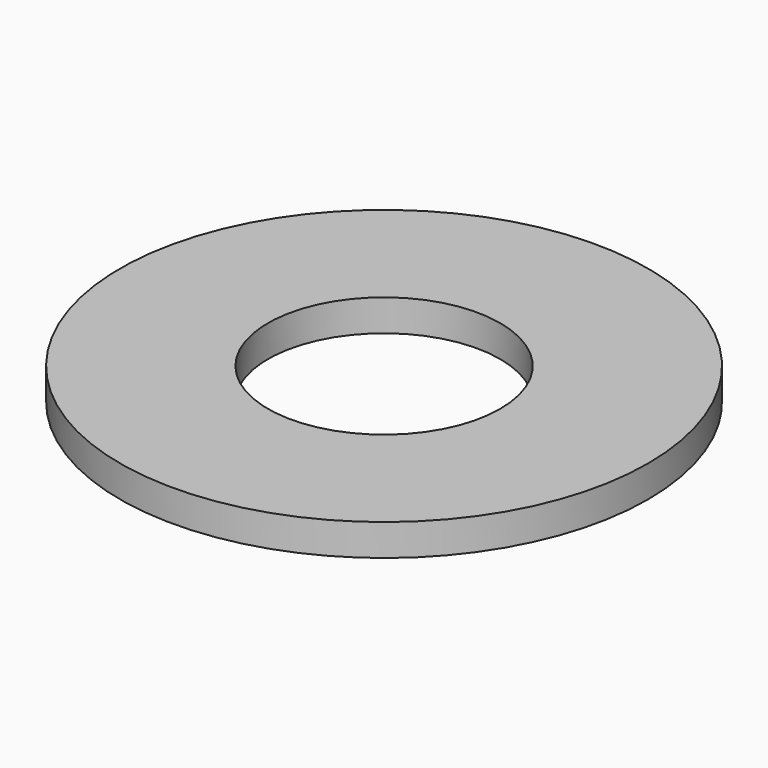
from build123d import *

# Parameters (mm, degrees)
SKETCH_R   = 2.5
SKETCH_R_2 = 1.1
PAD_DEPTH  = 0.3


with BuildPart() as part:
    # Sketch → Pad (new body)
    with BuildSketch(Plane.XY):
        Circle(SKETCH_R)
        Circle(SKETCH_R_2, mode=Mode.SUBTRACT)
    extrude(amount=PAD_DEPTH)


solid = part.part
